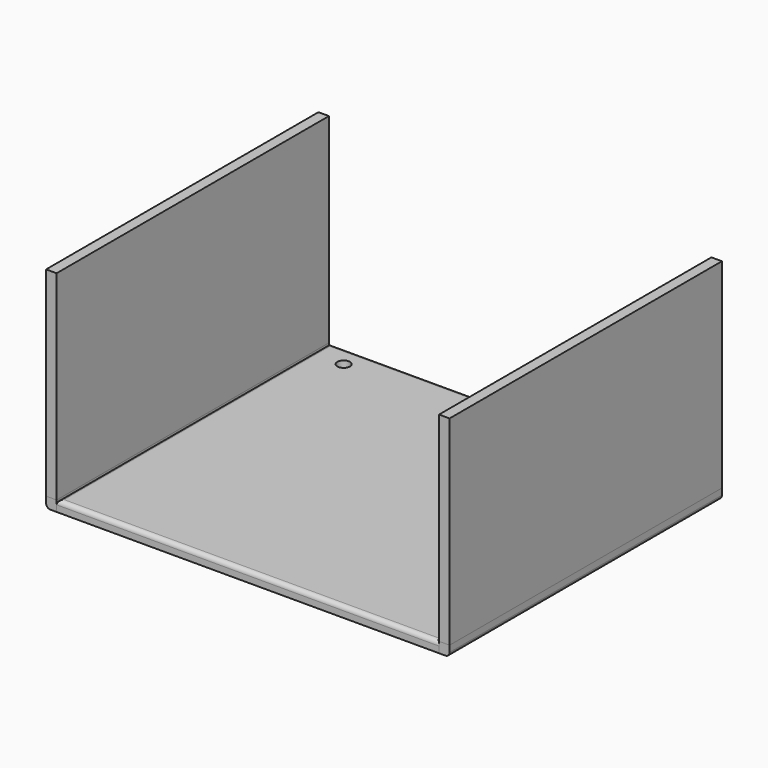
from build123d import *

# Parameters (mm, degrees)
F0_W      = 91
F0_H      = 81
F1_DEPTH  = 2.5
F2_W      = 81
F2_H      = 47.5
F3_DEPTH  = 2.5
F4_W      = 81
F4_H      = 47.5
F5_DEPTH  = 2.5
F6_DEPTH  = 2.5
F7_DEPTH  = 2.5
F8_R      = 1
F9_R      = 1
F9_2_R    = 1
F10_R     = 1.5
F11_DEPTH = 2.5


with BuildPart() as f1:
    # F0 (on Top) → F1 (new body)
    with BuildSketch(Plane.XY):
        with Locations((4.0102824569, 19.6646887419)):
            Rectangle(F0_W, F0_H)
    extrude(amount=F1_DEPTH)


with BuildPart() as f3:
    # F2 (on face) → F3 (new body)
    with BuildSketch(Plane(origin=(-41.4897175431, 0, 0), x_dir=(0, -1, 0), z_dir=(-1, 0, 0))):
        with Locations((-19.6646887419, 26.25)):
            Rectangle(F2_W, F2_H)
    extrude(amount=F3_DEPTH)


with BuildPart() as f5:
    # F4 (on face) → F5 (new body)
    with BuildSketch(Plane.YZ.offset(49.5102824569)):
        with Locations((19.6646887419, 26.25)):
            Rectangle(F4_W, F4_H)
    extrude(amount=F5_DEPTH)


with BuildPart() as f6:
    # F6 (new): a face of the model
    f6_faces = [f1.part.faces().sort_by_distance(p)[0] for p in [
        (49.5102824569, 19.6646887419, 1.25),
    ]]
    extrude(f6_faces, amount=F6_DEPTH)

    # F9
    f9_edges = [f6.edges().sort_by_distance(p)[0] for p in [
        (52.010282, 19.664689, 0),
    ]]
    fillet(f9_edges, radius=F9_R)


with BuildPart() as f7:
    # F7 (new): a face of the model
    f7_faces = [f1.part.faces().sort_by_distance(p)[0] for p in [
        (-41.4897175431, 19.6646887419, 1.25),
    ]]
    extrude(f7_faces, amount=F7_DEPTH)

    # F8
    f8_edges = [f7.edges().sort_by_distance(p)[0] for p in [
        (-43.989718, 19.664689, 0),
    ]]
    fillet(f8_edges, radius=F8_R)


with BuildPart() as f1_1:
    add(f1.part)

    # F9#2
    f9_2_edges = [f1_1.edges().sort_by_distance(p)[0] for p in [
        (4.010282, 60.164689, 2.5),
        (-41.489718, 19.664689, 2.5),
        (4.010282, -20.835311, 2.5),
        (49.510282, 19.664689, 2.5),
    ]]
    fillet(f9_2_edges, radius=F9_2_R)

    # F10 (on face) → F11 (cut)
    with BuildSketch(Plane.XY.offset(2.5)):
        with Locations((-33.9897175431, 55.1646887419)):
            Circle(F10_R)
        with Locations((42.0102824569, 55.1646887419)):
            Circle(F10_R)
    extrude(amount=-F11_DEPTH, mode=Mode.SUBTRACT)


solid = Compound([f3.part, f5.part, f6.part, f7.part, f1_1.part])
